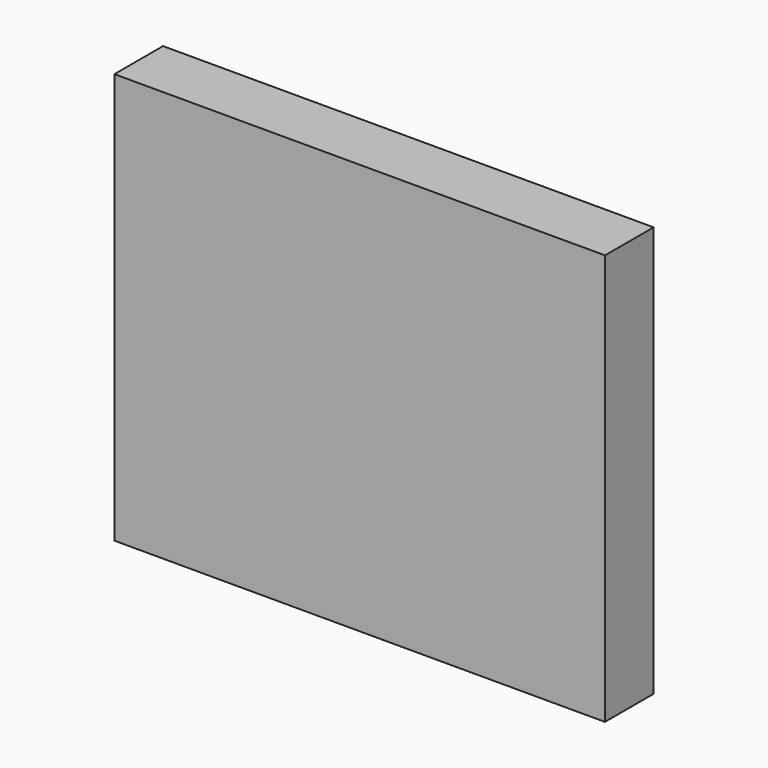
from build123d import *

# Parameters (mm, degrees)
F0_W     = 82.0386651903
F0_H     = 68.6869425699
F1_DEPTH = 10.16
F3_D     = 5.08
F3_DEPTH = 12.7
F3_TIP   = 1.5261859723


with BuildPart() as f1:
    # F0 (on Front) → F1 (new body)
    with BuildSketch(Plane.XZ):
        with Locations((-19.4462044165, 23.5556685366)):
            Rectangle(F0_W, F0_H)
    extrude(amount=F1_DEPTH)

    # F3
    with Locations(Plane(origin=(0, 0, -10.7878027484), x_dir=(1, 0, 0), z_dir=(0, 0, -1))):
        with Locations((-17.4416806549, 5.4131019861)):
            Hole(F3_D / 2, depth=F3_DEPTH)
            with Locations((0, 0, -(F3_DEPTH + F3_TIP / 2))):  # 118° drill point
                Cone(0, F3_D / 2, F3_TIP, mode=Mode.SUBTRACT)


solid = f1.part
